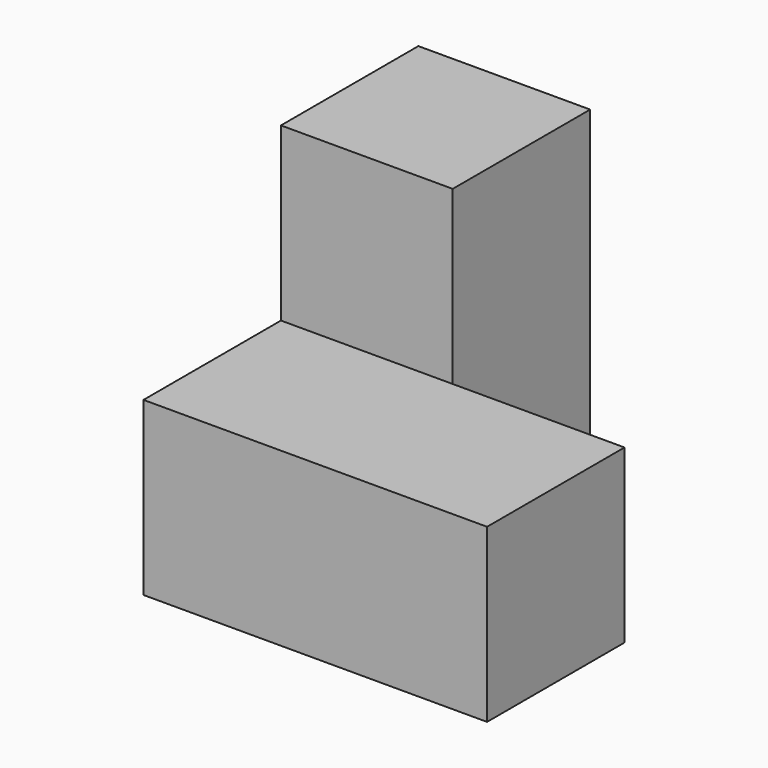
from build123d import *

# Parameters (mm, degrees)
F1_DEPTH = 25.4
F2_W     = 25.4
F2_H     = 25.4
F3_DEPTH = 25.4


with BuildPart() as f1:
    # F0 (on Top) → F1 (new body)
    with BuildSketch(Plane.XY):
        Polygon((-12.7, -25.4), (12.7, -25.4), (38.1, -25.4), (38.1, 0), (12.7, 0), (12.7, 25.4), (-12.7, 25.4), align=None)
    extrude(amount=F1_DEPTH)

    # F2 (on face) → F3 (join)
    with BuildSketch(Plane.XY.offset(25.4)):
        with Locations((0, 12.7)):
            Rectangle(F2_W, F2_H)
    extrude(amount=F3_DEPTH)


solid = f1.part
